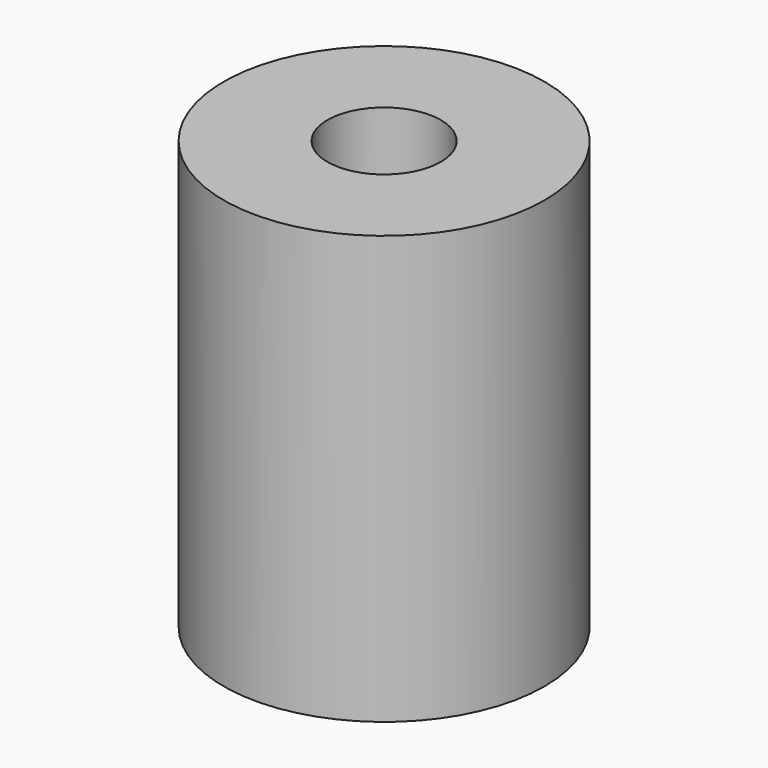
from build123d import *

# Parameters (mm, degrees)
F0_R     = 7.5
F0_R_2   = 2.65
F1_DEPTH = 20
F3_DEPTH = 4.5


with BuildPart() as f1:
    # F0 (on Top) → F1 (new body)
    with BuildSketch(Plane.XY):
        Circle(F0_R)
        Circle(F0_R_2, mode=Mode.SUBTRACT)
    extrude(amount=F1_DEPTH)

    # F2 (on face) → F3 (cut)
    with BuildSketch(Plane(origin=(0, 0, 0), x_dir=(1, 0, 0), z_dir=(0, 0, -1))):
        Polygon((4, 2.309401), (0, 4.618802), (-4, 2.309401), (-4, -2.309401), (0, -4.618802), (4, -2.309401), align=None)
    extrude(amount=-F3_DEPTH, mode=Mode.SUBTRACT)


solid = f1.part
